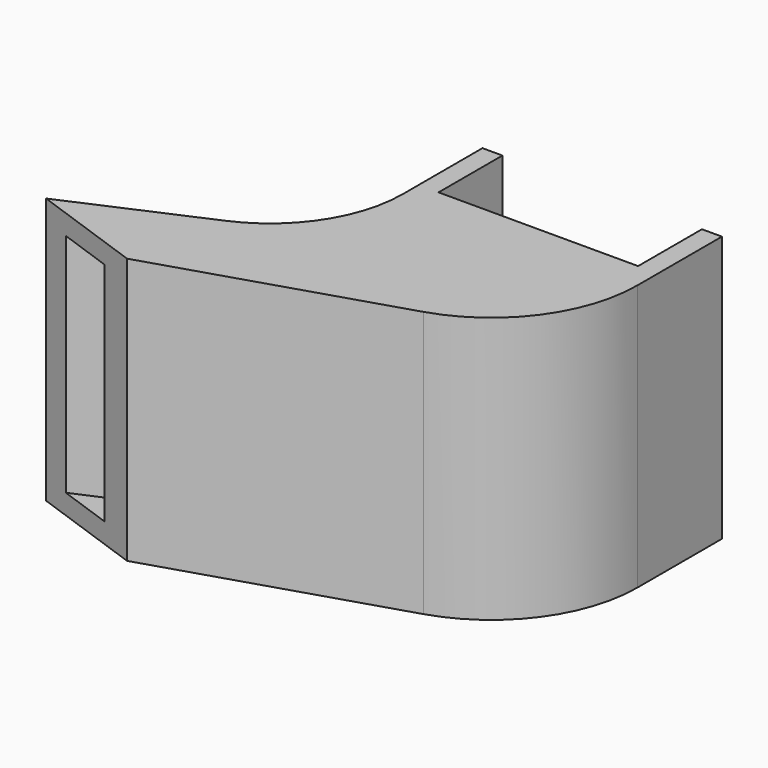
from build123d import *

# Parameters (mm, degrees)
PAD_DEPTH    = 20
FILLET_R     = 11
FILLET001_R  = 10
THICKNESS_T  = -1.5
SKETCH001_W  = 1.5
SKETCH001_H  = 20
PAD001_DEPTH = 6


with BuildPart() as part:
    # Sketch → Pad (new body)
    with BuildSketch(Plane.XY):
        Polygon((0, 0), (18, 0), (18, -10), (-7.514719, -18), (-16, -15), (0, -8), align=None)
    extrude(amount=PAD_DEPTH)

    # Fillet
    fillet_edges = [part.edges().sort_by_distance(p)[0] for p in [
        (18, -10, 10),
    ]]
    fillet(fillet_edges, radius=FILLET_R)

    # Fillet001
    fillet001_edges = [part.edges().sort_by_distance(p)[0] for p in [
        (0, -8, 10),
    ]]
    fillet(fillet001_edges, radius=FILLET001_R)

    # Thickness
    thickness_openings = [part.faces().sort_by_distance(p)[0] for p in [
        (9, 0, 10),
        (-11.757359, -16.5, 10),
    ]]
    offset(amount=THICKNESS_T, openings=thickness_openings)

    # Sketch001 → Pad001 (new body)
    with BuildSketch(Plane(origin=(0, 0, 0), x_dir=(-1, 0, 0), z_dir=(0, 1, 0))):
        with Locations((-17.25, 10)):
            Rectangle(SKETCH001_W, SKETCH001_H)
        with Locations((-0.75, 10)):
            Rectangle(SKETCH001_W, SKETCH001_H)
    extrude(amount=PAD001_DEPTH)


solid = part.part
